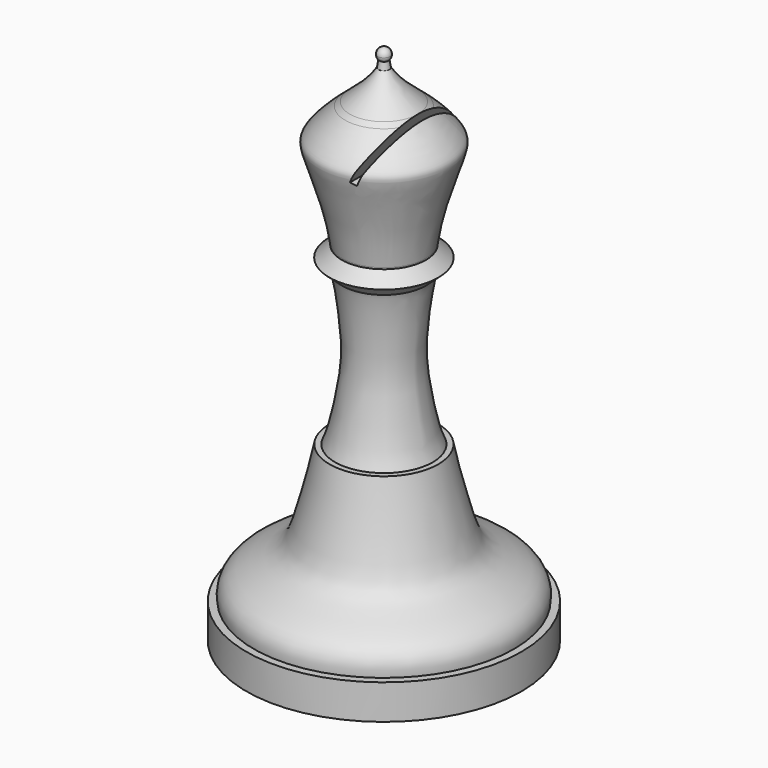
from build123d import *

# Parameters (mm, degrees)
F2_DEPTH = 25.4
F3_DEPTH = 25.4


with BuildPart() as f1:
    # F0 (on Front) → F1 (revolve)
    with BuildSketch(Plane.XZ):
        Polygon((0, 2.54), (0, 0), (10.033, 0), (10.033, 2.54), (9.4861555845, 2.54), align=None)
        with BuildLine():
            Line((0, 37.1824353933), (0, 2.54))
            Line((0, 2.54), (9.4861555845, 2.54))
            add(Edge.make_bspline(
                [(9.4861555845, 2.54), (9.8453891211, 4.4276976498), (5.9179255985, 5.2618132952), (5.1336004733, 7.762343265), (4.2204660289, 11.2245860249), (3.9645507932, 12.6038566232)],
                knots=[0, 0, 0, 0, 0.3490450724, 0.624870565, 1, 1, 1, 1], degree=3))
            Line((3.9645507932, 12.6038566232), (3.5626941826, 12.6038566232))
            add(Edge.make_bspline(
                [(3.5626941826, 12.6038566232), (3.2031516008, 13.3255932383), (2.4760706241, 16.8640443681), (2.3654149475, 19.4231070959), (2.8490578857, 23.2332946699), (3.0645283405, 23.775851354)],
                knots=[0, 0, 0, 0, 0.3450697936, 0.657036582, 1, 1, 1, 1], degree=3))
            Line((3.0645283405, 23.775851354), (3.9743119851, 24.5918147266))
            Line((3.9743119851, 24.5918147266), (3.0645283405, 25.425276343))
            Line((3.0645283405, 25.425276343), (3.0645283405, 25.5275927484))
            add(Edge.make_bspline(
                [(3.0645283405, 25.5275927484), (3.3999102429, 28.2161597708), (4.9036466919, 31.6129373063), (4.7012289547, 32.4872237799), (3.7060201327, 33.5572204547), (2.9138410483, 34.2374070059), (2.8228225087, 34.3145662132)],
                knots=[0, 0, 0, 0, 0.3715523633, 0.4947830291, 0.7141040095, 0.7421667067, 0.7421667067, 0.7421667067, 0.7421667067], degree=3))
            Line((2.8228225087, 34.3145662132), (1.5574188822, 31.4649180467))
            Line((1.5574188822, 31.4649180467), (1.1711250779, 31.6364541636))
            Line((1.1711250779, 31.6364541636), (2.4859273687, 34.597346529))
            add(Edge.make_bspline(
                [(2.4859273687, 34.597346529), (1.7439141747, 35.2174579169), (0.9664492324, 35.8714870687), (0.401673026, 36.7812261591)],
                knots=[0.7763528136, 0.7763528136, 0.7763528136, 0.7763528136, 1, 1, 1, 1], degree=3))
            Line((0.401673026, 36.7812261591), (0.3172948102, 37.3098490119))
            ThreePointArc((0.3172948102, 37.3098490119), (0.1709606876, 37.2154787565), (0, 37.1824353933))
        make_face()
        with BuildLine():
            Line((0, 38.1), (0, 37.1824353933))
            ThreePointArc((0, 37.1824353933), (0.1709606876, 37.2154787565), (0.3172948102, 37.3098490119))
            ThreePointArc((0.3172948102, 37.3098490119), (0.4219303531, 37.4610622666), (0.4587823033, 37.6412176967))
            ThreePointArc((0.4587823033, 37.6412176967), (0.3244080778, 37.9656257744), (0, 38.1))
        make_face()
        with BuildLine():
            Line((0, 37.1824353933), (0, 2.54))
            Line((0, 2.54), (9.4861555845, 2.54))
            add(Edge.make_bspline(
                [(9.4861555845, 2.54), (9.8453891211, 4.4276976498), (5.9179255985, 5.2618132952), (5.1336004733, 7.762343265), (4.2204660289, 11.2245860249), (3.9645507932, 12.6038566232)],
                knots=[0, 0, 0, 0, 0.3490450724, 0.624870565, 1, 1, 1, 1], degree=3))
            Line((3.9645507932, 12.6038566232), (3.5626941826, 12.6038566232))
            add(Edge.make_bspline(
                [(3.5626941826, 12.6038566232), (3.2031516008, 13.3255932383), (2.4760706241, 16.8640443681), (2.3654149475, 19.4231070959), (2.8490578857, 23.2332946699), (3.0645283405, 23.775851354)],
                knots=[0, 0, 0, 0, 0.3450697936, 0.657036582, 1, 1, 1, 1], degree=3))
            Line((3.0645283405, 23.775851354), (3.9743119851, 24.5918147266))
            Line((3.9743119851, 24.5918147266), (3.0645283405, 25.425276343))
            Line((3.0645283405, 25.425276343), (3.0645283405, 25.5275927484))
            add(Edge.make_bspline(
                [(3.0645283405, 25.5275927484), (3.3999102429, 28.2161597708), (4.9036466919, 31.6129373063), (4.7012289547, 32.4872237799), (3.7060201327, 33.5572204547), (2.9138410483, 34.2374070059), (2.8228225087, 34.3145662132)],
                knots=[0, 0, 0, 0, 0.3715523633, 0.4947830291, 0.7141040095, 0.7421667067, 0.7421667067, 0.7421667067, 0.7421667067], degree=3))
            Line((2.8228225087, 34.3145662132), (1.5574188822, 31.4649180467))
            Line((1.5574188822, 31.4649180467), (1.1711250779, 31.6364541636))
            Line((1.1711250779, 31.6364541636), (2.4859273687, 34.597346529))
            add(Edge.make_bspline(
                [(2.4859273687, 34.597346529), (1.7439141747, 35.2174579169), (0.9664492324, 35.8714870687), (0.401673026, 36.7812261591)],
                knots=[0.7763528136, 0.7763528136, 0.7763528136, 0.7763528136, 1, 1, 1, 1], degree=3))
            Line((0.401673026, 36.7812261591), (0.3172948102, 37.3098490119))
            ThreePointArc((0.3172948102, 37.3098490119), (0.1709606876, 37.2154787565), (0, 37.1824353933))
        make_face()
        with BuildLine():
            add(Edge.make_bspline(
                [(2.8228225087, 34.3145662132), (2.7119433048, 34.4085619146), (2.5993495081, 34.5025579715), (2.4859273687, 34.597346529)],
                knots=[0.7421667067, 0.7421667067, 0.7421667067, 0.7421667067, 0.7763528136, 0.7763528136, 0.7763528136, 0.7763528136], degree=3))
            Line((2.4859273687, 34.597346529), (1.1711250779, 31.6364541636))
            Line((1.1711250779, 31.6364541636), (1.5574188822, 31.4649180467))
            Line((1.5574188822, 31.4649180467), (2.8228225087, 34.3145662132))
        make_face()
    revolve(axis=Axis((0, 0, 19.05), (0, 0, 1)))

    # F0 (on Front) → F2 (cut)
    with BuildSketch(Plane.XZ):
        with BuildLine():
            Line((3.5590358397, 37.0139522053), (2.4859273687, 34.597346529))
            add(Edge.make_bspline(
                [(2.8228225087, 34.3145662132), (2.7119433048, 34.4085619146), (2.5993495081, 34.5025579715), (2.4859273687, 34.597346529)],
                knots=[0.7421667067, 0.7421667067, 0.7421667067, 0.7421667067, 0.7763528136, 0.7763528136, 0.7763528136, 0.7763528136], degree=3))
            Line((2.8228225087, 34.3145662132), (3.9516790885, 36.8567148328))
            Line((3.9516790885, 36.8567148328), (3.5590358397, 37.0139522053))
        make_face()
        with BuildLine():
            add(Edge.make_bspline(
                [(2.8228225087, 34.3145662132), (2.7119433048, 34.4085619146), (2.5993495081, 34.5025579715), (2.4859273687, 34.597346529)],
                knots=[0.7421667067, 0.7421667067, 0.7421667067, 0.7421667067, 0.7763528136, 0.7763528136, 0.7763528136, 0.7763528136], degree=3))
            Line((2.4859273687, 34.597346529), (1.1711250779, 31.6364541636))
            Line((1.1711250779, 31.6364541636), (1.5574188822, 31.4649180467))
            Line((1.5574188822, 31.4649180467), (2.8228225087, 34.3145662132))
        make_face()
    extrude(amount=-F2_DEPTH, mode=Mode.SUBTRACT)

    # F3 (cut): a face of the model
    f3_faces = [f1.faces().sort_by_distance(p)[0] for p in [
        (2.0082250792, 0, 33.0041671759),
    ]]
    extrude(f3_faces, amount=-F3_DEPTH, mode=Mode.SUBTRACT)


solid = f1.part
